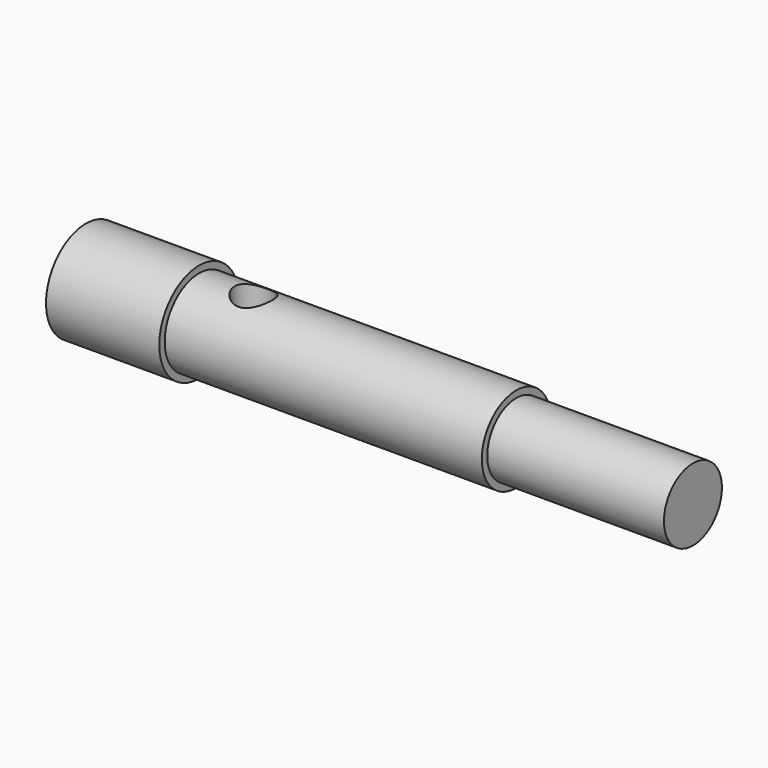
from build123d import *

# Parameters (mm, degrees)
F0_R          = 11
F0_R_2        = 4.15
F1_DEPTH      = 25
F2_R          = 9.5
F3_DEPTH      = 70
F5_R          = 4.15
F6_DEPTH      = 11.001
F6_DEPTH_BACK = 11.001
F7_R          = 8
F8_DEPTH      = 39
F9_DEPTH      = 19


with BuildPart() as f1:
    # F0 (on Right) → F1 (new body)
    with BuildSketch(Plane.YZ):
        Circle(F0_R)
        Circle(F0_R_2, mode=Mode.SUBTRACT)
    extrude(amount=-F1_DEPTH)

    # F2 (on face) → F3 (join)
    with BuildSketch(Plane.YZ):
        Circle(F2_R)
    extrude(amount=F3_DEPTH)

    # F5 (on plane+point) → F6 (cut, two sides)
    with BuildSketch(Plane.XY) as f6_sk:
        with Locations((12, 0)):
            Circle(F5_R)
    extrude(amount=-F6_DEPTH, mode=Mode.SUBTRACT)
    extrude(f6_sk.sketch, amount=F6_DEPTH_BACK, mode=Mode.SUBTRACT)

    # F7 (on face) → F8 (join)
    with BuildSketch(Plane.YZ.offset(70)):
        Circle(F7_R)
    extrude(amount=F8_DEPTH)

    # F9 (cut): a face of the model
    f9_faces = [f1.faces().sort_by_distance(p)[0] for p in [
        (0, 0, 0),
    ]]
    extrude(f9_faces, amount=-F9_DEPTH, mode=Mode.SUBTRACT)


solid = f1.part
